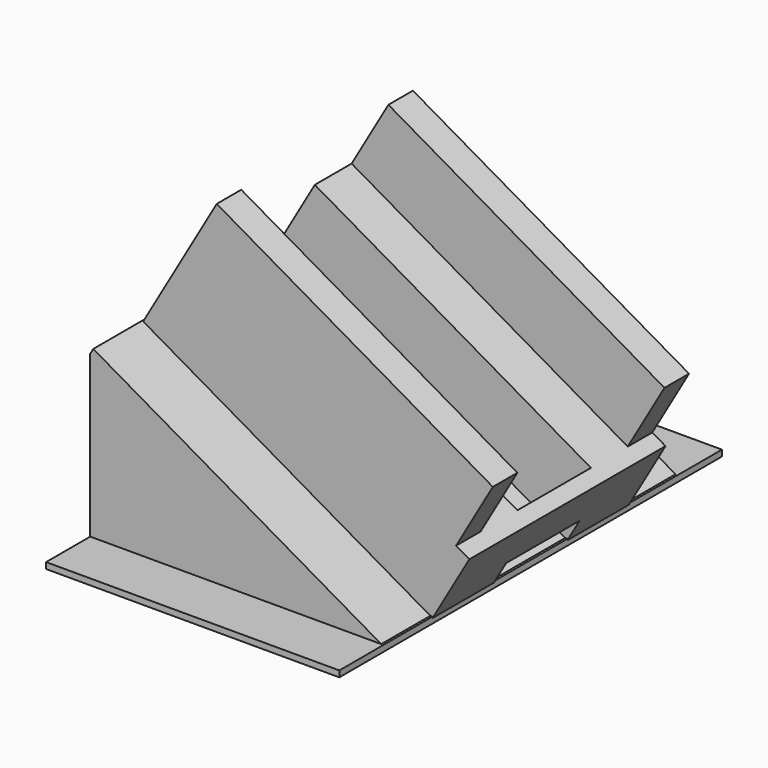
from build123d import *

# Parameters (mm, degrees)
F1_DEPTH  = 38.1
F2_W      = 66.04
F2_H      = 9.525
F3_DEPTH  = 15.24
F2_H_2    = 6.35
F4_DEPTH  = 30.48
F5_DEPTH  = 15.24
F6_W      = 19.05
F6_H      = 5.08
F7_DEPTH  = 3.175
F9_DEPTH  = 6.35
F11_DEPTH = 3.175
F13_DEPTH = 1.27


with BuildPart() as f1:
    # F0 (on Front) → F1 (new body, symmetric)
    with BuildSketch(Plane.XZ):
        Polygon((-0.8076530991, -1.0001709495), (0, 0), (-60.1146014221, 34.7071813133), (-60.7496014221, 33.6073290505), align=None)
    extrude(amount=F1_DEPTH, both=True)

    # F2 (on face) → F3 (join)
    with BuildSketch(Plane(origin=(0, 0, 0), x_dir=(0.8660254038, 0, -0.5), z_dir=(0.5, 0, 0.8660254038))):
        with Locations((-36.195, -14.2875)):
            Rectangle(F2_W, F2_H)
        with Locations((-36.195, 14.2875)):
            Rectangle(F2_W, F2_H)
    extrude(amount=F3_DEPTH)

    # F2 (on face) → F4 (join)
    with BuildSketch(Plane(origin=(0, 0, 0), x_dir=(0.8660254038, 0, -0.5), z_dir=(0.5, 0, 0.8660254038))):
        with Locations((-36.195, -22.225)):
            Rectangle(F2_W, F2_H_2)
        with Locations((-36.195, 22.225)):
            Rectangle(F2_W, F2_H_2)
    extrude(amount=F4_DEPTH)

    # F2 (on face) → F5 (join)
    with BuildSketch(Plane(origin=(0, 0, 0), x_dir=(0.8660254038, 0, -0.5), z_dir=(0.5, 0, 0.8660254038))):
        Polygon((0, 25.4), (-3.175, 25.4), (-3.175, 19.05), (-3.175, 9.525), (-3.175, -9.525), (-3.175, -19.05), (-3.175, -25.4), (0, -25.4), align=None)
    extrude(amount=F5_DEPTH)

    # F6 (on face) → F7 (cut)
    with BuildSketch(Plane(origin=(0, 0, 0), x_dir=(0, 1, 0), z_dir=(0.8660254038, 0, -0.5))):
        with Locations((0, 2.54)):
            Rectangle(F6_W, F6_H)
    extrude(amount=-F7_DEPTH, mode=Mode.SUBTRACT)

    # F8 (on face) → F9 (join)
    with BuildSketch(Plane.XZ.offset(38.1)):
        Polygon((-60.7496014221, -1.0001709495), (-0.8076530991, -1.0001709495), (-60.7496014221, 33.6073290505), align=None)
    extrude(amount=-F9_DEPTH)

    # F10 (on face) → F11 (join)
    with BuildSketch(Plane(origin=(0, 38.1, 0), x_dir=(-1, 0, 0), z_dir=(0, 1, 0))):
        Polygon((60.7496014221, 33.6073290505), (0.8076530991, -1.0001709495), (60.6936737895, -1.0001709495), align=None)
    extrude(amount=-F11_DEPTH)

    # F12 (on face) → F13 (join)
    with BuildSketch(Plane(origin=(0, 0, -1.0001709495), x_dir=(1, 0, 0), z_dir=(0, 0, -1))):
        Polygon((0, 49.53), (-60.7496014221, 49.53), (-60.7496014221, 38.1), (-0.8076530991, 38.1), (-0.8076530991, 31.75), (-60.7496014221, 31.75), (-60.7496014221, -49.53), (0, -49.53), (0, -9.525), (0, 9.525), align=None)
    extrude(amount=-F13_DEPTH)


solid = f1.part
